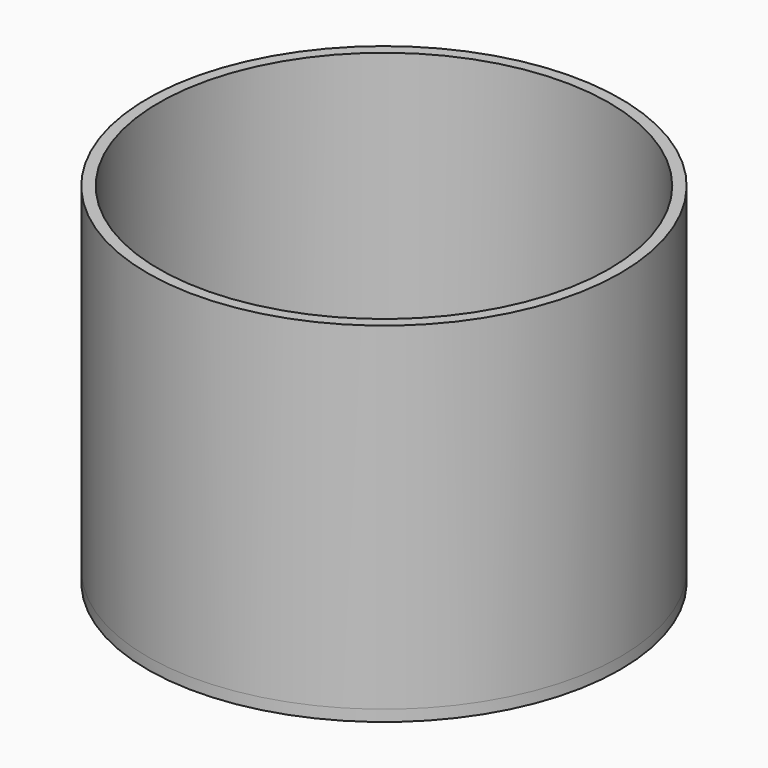
from build123d import *

# Parameters (mm, degrees)
F0_R        = 21
F0_R_2      = 20
F1_DEPTH    = 30
F2_DEPTH    = 1
F1_FACE_R   = 21
F1_FACE_R_2 = 20
F3_DEPTH    = 1


with BuildPart() as f1:
    # F0 (on Top) → F1 (new body)
    with BuildSketch(Plane.XY):
        Circle(F0_R)
        Circle(F0_R_2, mode=Mode.SUBTRACT)
    extrude(amount=F1_DEPTH)


with BuildPart() as f2:
    # F0 (on Top) → F2 (new body)
    with BuildSketch(Plane.XY):
        Circle(F0_R_2)
    extrude(amount=-F2_DEPTH)


with BuildPart() as f3:
    # F1_face (on face) → F3 (new body)
    with BuildSketch(Plane(origin=(0, 0, 0), x_dir=(1, 0, 0), z_dir=(0, 0, -1))):
        Circle(F1_FACE_R)
        Circle(F1_FACE_R_2, mode=Mode.SUBTRACT)
    extrude(amount=F3_DEPTH)


solid = Compound([f1.part, f2.part, f3.part])
